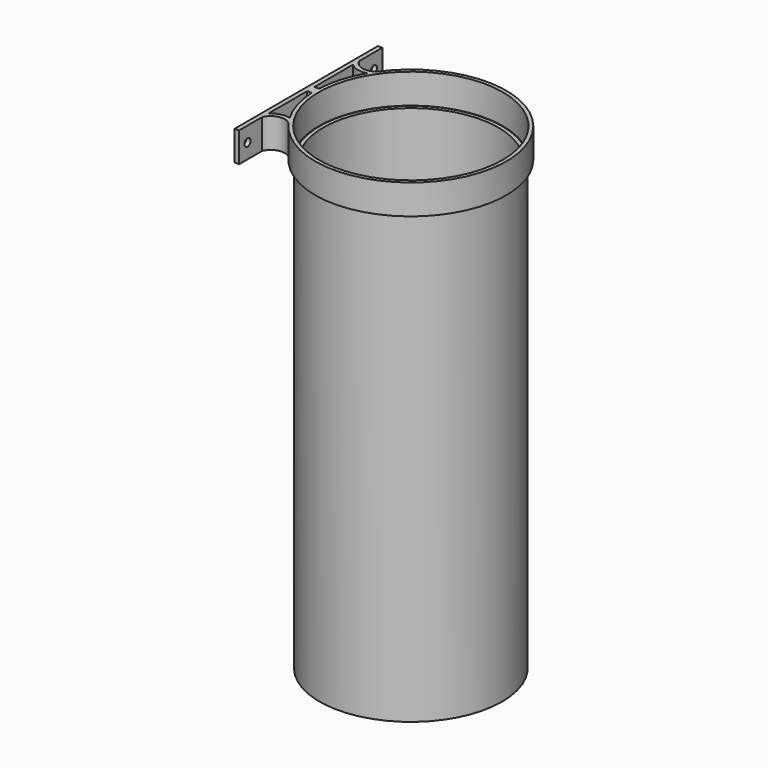
from build123d import *

# Parameters (mm, degrees)
F0_R     = 77.7875
F0_R_2   = 74.6125
F1_DEPTH = 381
F2_R     = 78.2875
F3_DEPTH = 25.4
F5_D     = 6.5278
F5_DEPTH = 12.7
F5_TIP   = 1.9611489744


with BuildPart() as f1:
    # F0 (on Top) → F1 (new body)
    with BuildSketch(Plane.XY):
        Circle(F0_R)
        Circle(F0_R_2, mode=Mode.SUBTRACT)
    extrude(amount=F1_DEPTH)


with BuildPart() as f3:
    # F2 (on face) → F3 (new body)
    with BuildSketch(Plane.XY.offset(381)):
        with BuildLine():
            ThreePointArc((-85.2725, 45.0422166882), (-78.3221377829, 41.1137452149), (-70.338404364, 41.0931597444))
            ThreePointArc((-70.338404364, 41.0931597444), (-78.1128858571, 23.1196014094), (-81.3733543996, 3.81))
            ThreePointArc((-81.3733543996, 3.81), (-81.4402105505, 1.9055213813), (-81.4625, 0))
            ThreePointArc((-81.4625, 0), (-81.4402105505, -1.9055213813), (-81.3733543996, -3.81))
            ThreePointArc((-81.3733543996, -3.81), (-78.1128858571, -23.1196014094), (-70.338404364, -41.0931597444))
            ThreePointArc((-70.338404364, -41.0931597444), (-68.2618678448, -44.4573537741), (-66.0245571578, -47.7168393585))
            ThreePointArc((-66.0245571578, -47.7168393585), (81.4625, 0), (-66.0245571578, 47.7168393585))
            ThreePointArc((-66.0245571578, 47.7168393585), (-76.6698711174, 44.6387681268), (-85.2725, 51.6238957644))
            Line((-85.2725, 51.6238957644), (-85.2725, 76.2))
            Line((-85.2725, 76.2), (-89.0825, 76.2))
            Line((-89.0825, 76.2), (-89.0825, 0))
            Line((-89.0825, 0), (-85.2725, 0))
            Line((-85.2725, 0), (-85.2725, 3.81))
            Line((-85.2725, 3.81), (-85.2725, 45.0422166882))
        make_face()
        Circle(F2_R, mode=Mode.SUBTRACT)
        with BuildLine():
            Line((-85.2725, -3.81), (-85.2725, 0))
            Line((-85.2725, 0), (-89.0825, 0))
            Line((-89.0825, 0), (-89.0825, -76.2))
            Line((-89.0825, -76.2), (-85.2725, -76.2))
            Line((-85.2725, -76.2), (-85.2725, -51.6238957644))
            ThreePointArc((-85.2725, -51.6238957644), (-76.6698711174, -44.6387681268), (-66.0245571578, -47.7168393585))
            ThreePointArc((-66.0245571578, -47.7168393585), (-68.2618678448, -44.4573537741), (-70.338404364, -41.0931597444))
            ThreePointArc((-70.338404364, -41.0931597444), (-78.3221377829, -41.1137452149), (-85.2725, -45.0422166882))
            Line((-85.2725, -45.0422166882), (-85.2725, -3.81))
        make_face()
        with BuildLine():
            ThreePointArc((-81.4625, 0), (-81.4402105505, 1.9055213813), (-81.3733543996, 3.81))
            Line((-81.3733543996, 3.81), (-85.2725, 3.81))
            Line((-85.2725, 3.81), (-85.2725, 0))
            Line((-85.2725, 0), (-81.4625, 0))
        make_face()
        with BuildLine():
            ThreePointArc((-81.3733543996, -3.81), (-81.4402105505, -1.9055213813), (-81.4625, 0))
            Line((-81.4625, 0), (-85.2725, 0))
            Line((-85.2725, 0), (-85.2725, -3.81))
            Line((-85.2725, -3.81), (-81.3733543996, -3.81))
        make_face()
    extrude(amount=F3_DEPTH)

    # F5 (one way)
    with BuildSketch(Plane.YZ.offset(-85.2725)):
        with Locations((67.31, 393.7), (-67.31, 393.7)):
            Circle(F5_D / 2)
    extrude(amount=-F5_DEPTH, mode=Mode.SUBTRACT)
    with Locations(Plane.YZ.offset(-85.2725)):
        with Locations((67.31, 393.7), (-67.31, 393.7)):
            with Locations((0, 0, -(F5_DEPTH + F5_TIP / 2))):  # 118° drill point
                Cone(0, F5_D / 2, F5_TIP, mode=Mode.SUBTRACT)


solid = Compound([f1.part, f3.part])
